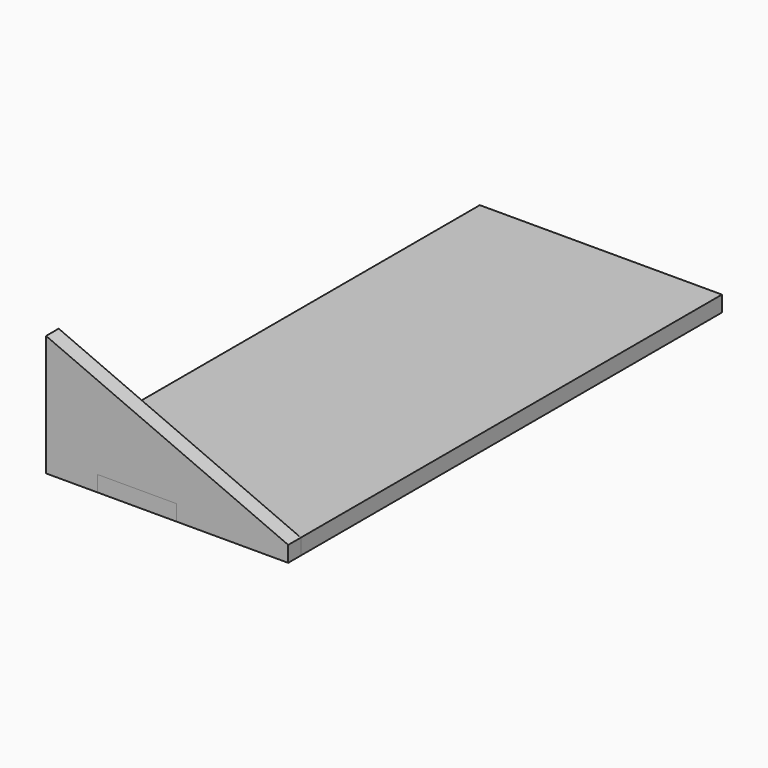
from build123d import *

# Parameters (mm, degrees)
F0_W     = 15
F0_H     = 3
F0_W_2   = 9.753429
F0_W_3   = 21.243422
F1_DEPTH = 3
F3_DEPTH = 3


with BuildPart() as f1:
    # F0 (on Front) → F1 (new body)
    with BuildSketch(Plane.XZ):
        Polygon((-21.243422, 0), (0, 0), (-45.996851, 20), (-45.996851, 0), (-36.243422, 0), (-36.243422, 3), (-21.243422, 3), align=None)
        with Locations((-28.743422, 1.5)):
            Rectangle(F0_W, F0_H)
        with Locations((-41.120137, -1.5)):
            Rectangle(F0_W_2, F0_H)
        with Locations((-10.621711, -1.5)):
            Rectangle(F0_W_3, F0_H)
    extrude(amount=F1_DEPTH)


with BuildPart() as f3:
    # F2 (on Top) → F3 (new body)
    with BuildSketch(Plane.XY):
        Polygon((-36.243422, 0), (-36.243422, -3), (-21.243422, -3), (-21.243422, 0), (0, 0), (0, 100), (-45.996851, 100), (-45.996851, 0), align=None)
    extrude(amount=-F3_DEPTH)


solid = Compound([f1.part, f3.part])
